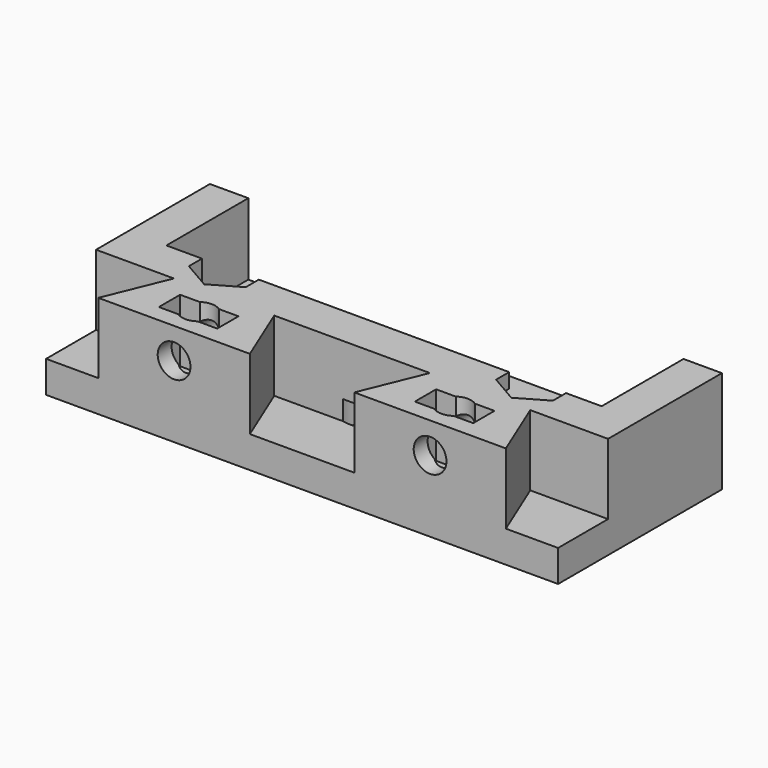
from build123d import *

# Parameters (mm, degrees)
SKETCH_W             = 50
SKETCH_H             = 20
PAD_DEPTH            = 10
SKETCH001_W          = 42.5
SKETCH001_H          = 10
POCKET_DEPTH         = 7
SKETCH002_R          = 1.6
POCKET001_DEPTH      = 5
POCKET002_DEPTH      = 6.9
SKETCH004_R          = 1.6
POCKET003_DEPTH      = 10
SKETCH005_W          = 5.7
SKETCH005_H          = 2.6
POCKET004_DEPTH      = 6.15
SKETCH006_R          = 1.6
POCKET005_DEPTH      = 10
SKETCH007_R          = 8
PAD001_DEPTH         = 0.2
SKETCH008_R          = 4
POCKET006_DEPTH      = 2
POCKET006_DEPTH_BACK = -4
POCKET007_DEPTH      = 7


with BuildPart() as part:
    # Sketch → Pad (new body)
    with BuildSketch(Plane.XY):
        with Locations((25, 10)):
            Rectangle(SKETCH_W, SKETCH_H)
    extrude(amount=PAD_DEPTH)

    # Sketch001 (on Face6 of Pad) → Pocket (cut)
    with BuildSketch(Plane.XY.offset(10)):
        with Locations((25, 15)):
            Rectangle(SKETCH001_W, SKETCH001_H)
    extrude(amount=-POCKET_DEPTH, mode=Mode.SUBTRACT)

    # Sketch002 (on Face6 of Pocket) → Pocket001 (cut)
    with BuildSketch(Plane.XY.offset(3)):
        with Locations((10, 10)):
            Circle(SKETCH002_R)
        with Locations((40, 10)):
            Circle(SKETCH002_R)
    extrude(amount=-POCKET001_DEPTH, mode=Mode.SUBTRACT)

    # Sketch003 (on Face4 of Pocket001) → Pocket002 (cut)
    with BuildSketch(Plane.XY.offset(10)):
        Polygon((5.1, 0), (7.6, 6.1), (0, 6.1), (0, 0), align=None)
        Polygon((19.9, 0), (17.4, 6.1), (32.6, 6.1), (30.1, 0), align=None)
        Polygon((42.4, 6.1), (44.9, 0), (50, 0), (50, 6.1), align=None)
    extrude(amount=-POCKET002_DEPTH, mode=Mode.SUBTRACT)

    # Sketch004 (on Face4 of Pocket002) → Pocket003 (cut)
    with BuildSketch(Plane.XY.offset(10)):
        with Locations((12.5, 3)):
            Circle(SKETCH004_R)
        with Locations((37.5, 3)):
            Circle(SKETCH004_R)
    extrude(amount=-POCKET003_DEPTH, mode=Mode.SUBTRACT)

    # Sketch005 (on Face4 of Pocket003) → Pocket004 (cut)
    with BuildSketch(Plane.XY.offset(10)):
        with Locations((12.5, 3)):
            Rectangle(SKETCH005_W, SKETCH005_H)
        with Locations((37.5, 3)):
            Rectangle(SKETCH005_W, SKETCH005_H)
    extrude(amount=-POCKET004_DEPTH, mode=Mode.SUBTRACT)

    # Sketch006 (on Face9 of Pocket004) → Pocket005 (cut)
    with BuildSketch(Plane.XZ):
        with Locations((12.5, 7)):
            Circle(SKETCH006_R)
        with Locations((37.5, 7)):
            Circle(SKETCH006_R)
    extrude(amount=-POCKET005_DEPTH, mode=Mode.SUBTRACT)

    # Sketch007 (on Face2 of Pocket005) → Pad001 (join)
    with BuildSketch(Plane(origin=(0, 0, 0), x_dir=(1, 0, 0), z_dir=(0, 0, -1))):
        with Locations((25, -10)):
            Circle(SKETCH007_R)
    extrude(amount=PAD001_DEPTH)

    # Sketch008 (on Face47 of Pad001) → Pocket006 (cut, two sides)
    with BuildSketch(Plane(origin=(0, 0, 3), x_dir=(1, 0, 0), z_dir=(0, 0, -1))) as pocket006_sk:
        with Locations((25, -10)):
            Circle(SKETCH008_R)
    extrude(amount=-POCKET006_DEPTH, mode=Mode.SUBTRACT)
    extrude(pocket006_sk.sketch, amount=-POCKET006_DEPTH_BACK, mode=Mode.SUBTRACT)

    # Sketch009 (on Face4 of Pocket006) → Pocket007 (cut)
    with BuildSketch(Plane.XY.offset(10)):
        Polygon((12.775, 8.397853), (12.775, 11.602147), (10, 13.204294), (7.225, 11.602147), (7.225, 8.397853), (10, 6.795706), align=None)
        Polygon((42.775, 8.397853), (42.775, 11.602147), (40, 13.204294), (37.225, 11.602147), (37.225, 8.397853), (40, 6.795706), align=None)
    extrude(amount=-POCKET007_DEPTH, mode=Mode.SUBTRACT)


solid = part.part
